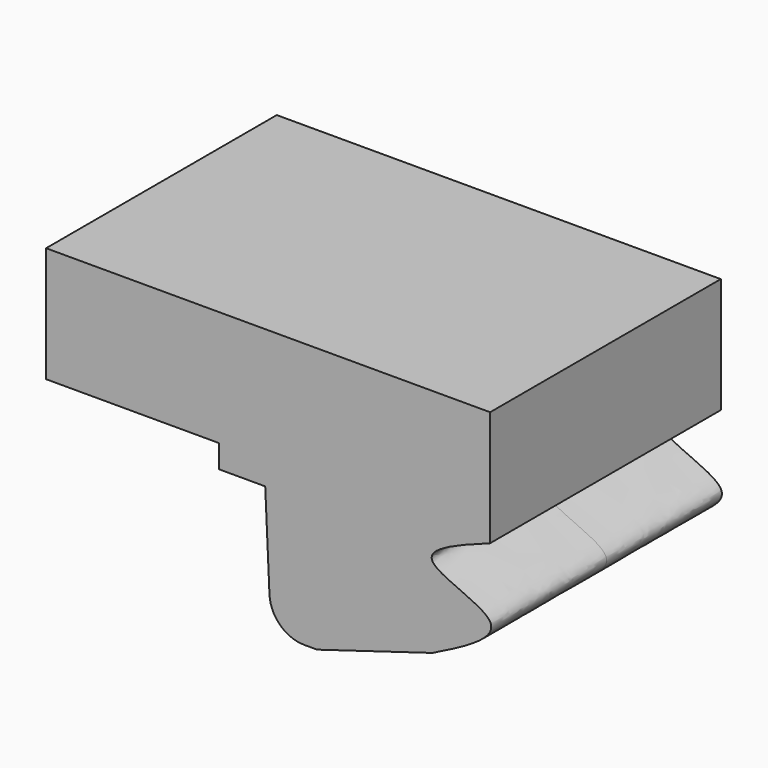
from build123d import *

# Parameters (mm, degrees)
F1_DEPTH = 12.5
F2_R     = 3


with BuildPart() as f1:
    # F0 (on Front) → F1 (new body, symmetric)
    with BuildSketch(Plane.XZ):
        with BuildLine():
            Line((0, -2), (0, -4))
            Line((0, -4), (4, -4))
            Line((4, -4), (4.5, -15))
            Line((4.5, -15), (8.5, -15))
            Line((8.5, -15), (18.5, -12))
            add(Edge.make_bspline(
                [(23.5, -2), (20.7340978267, -3.0177053618), (15.2022934801, -5.0531160855), (26.8743187374, -7.8312092875), (21.3346438213, -10.5888957411), (18.5, -12)],
                knots=[0, 0, 0, 0, 0.3280930929, 0.6561861857, 1, 1, 1, 1], degree=3))
            Line((23.5, -2), (23.5, 0))
            Line((23.5, 0), (23.5, 8))
            Line((23.5, 8), (0, 8))
            Line((0, 8), (-15, 8))
            Line((-15, 8), (-15, 0))
            Line((-15, 0), (-15, -2))
            Line((-15, -2), (0, -2))
        make_face()
    extrude(amount=F1_DEPTH, both=True)

    # F2
    f2_edges = [f1.edges().sort_by_distance(p)[0] for p in [
        (4.5, 0, -15),
    ]]
    fillet(f2_edges, radius=F2_R)


solid = f1.part
